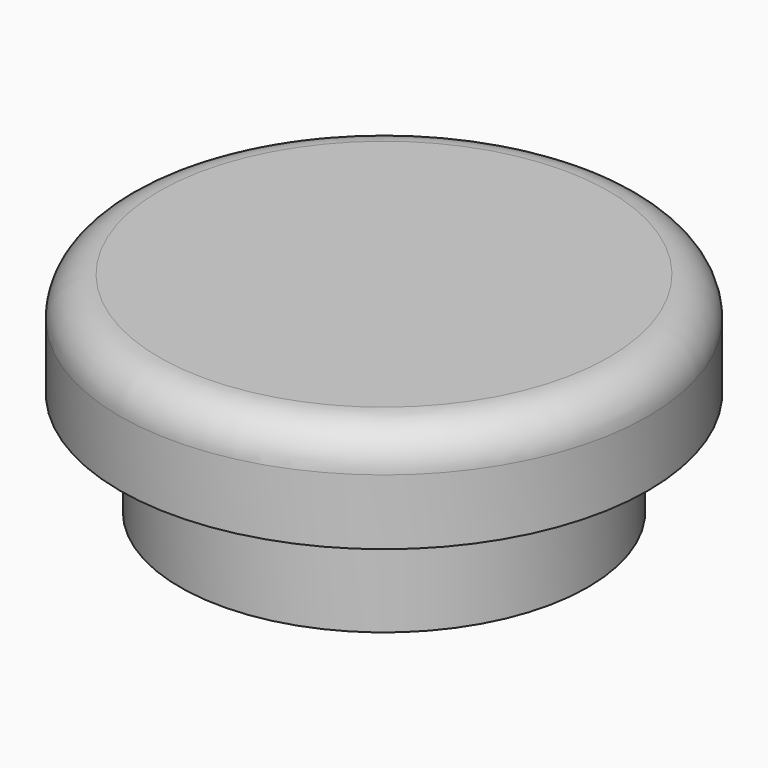
from build123d import *

# Parameters (mm, degrees)
F0_R     = 10.1
F1_DEPTH = 4
F2_R     = 1.5
F3_R     = 7.8
F4_DEPTH = 4


with BuildPart() as f1:
    # F0 (on Top) → F1 (new body)
    with BuildSketch(Plane.XY):
        Circle(F0_R)
    extrude(amount=F1_DEPTH)

    # F2
    f2_edges = [f1.edges().sort_by_distance(p)[0] for p in [
        (-10.1, 0, 4),
    ]]
    fillet(f2_edges, radius=F2_R)

    # F3 (on face) → F4 (join)
    with BuildSketch(Plane(origin=(0, 0, 0), x_dir=(1, 0, 0), z_dir=(0, 0, -1))):
        Circle(F3_R)
    extrude(amount=F4_DEPTH)


solid = f1.part
